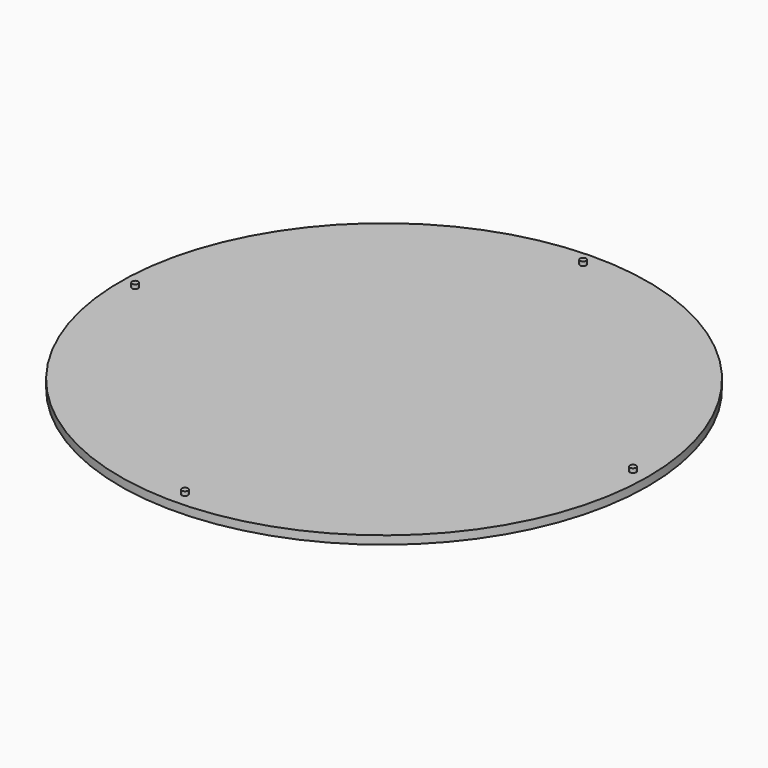
from build123d import *

# Parameters (mm, degrees)
F0_R     = 63.625
F1_DEPTH = 2
F2_R     = 0.75
F3_DEPTH = 1


with BuildPart() as f1:
    # F0 (on Top) → F1 (new body)
    with BuildSketch(Plane.XY):
        Circle(F0_R)
    extrude(amount=F1_DEPTH)

    # F2 (on face) → F3 (join)
    with BuildSketch(Plane.XY.offset(2)):
        with Locations((0, 60)):
            Circle(F2_R)
        with Locations((-60, 0)):
            Circle(F2_R)
        with Locations((0, -60)):
            Circle(F2_R)
        with Locations((60, 0)):
            Circle(F2_R)
    extrude(amount=F3_DEPTH)


solid = f1.part
